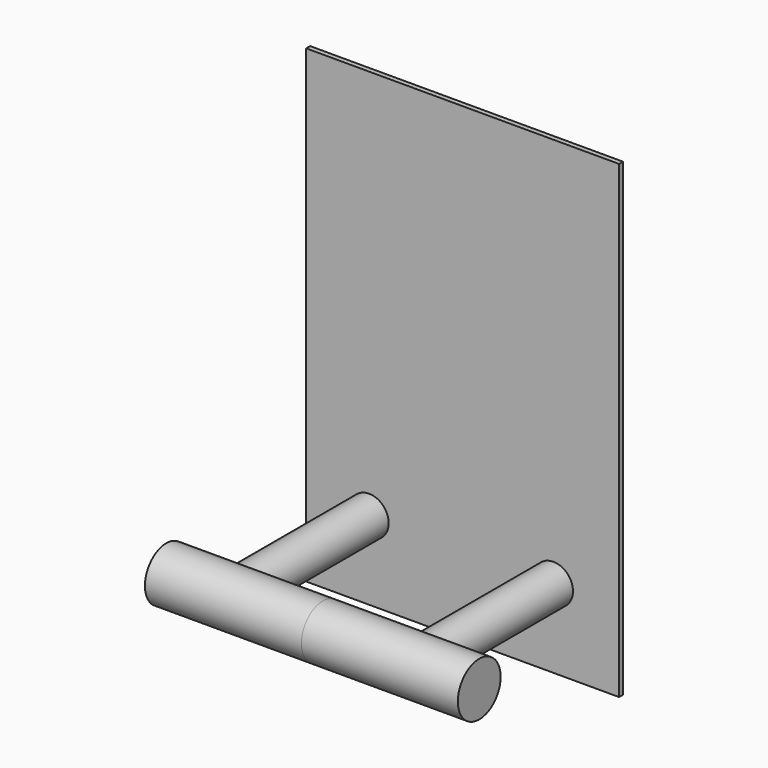
from build123d import *

# Parameters (mm, degrees)
F1_DEPTH      = 1.6002
F2_R          = 6.35
F3_DEPTH      = 50.8
F4_R          = 8.687802
F5_DEPTH      = 50.8
F5_DEPTH_BACK = 50.8


with BuildPart() as f1:
    # F0 (on Front) → F1 (new body)
    with BuildSketch(Plane.XZ):
        Polygon((0, 76.2), (-50.8, 76.2), (-50.8, 0), (-50.8, -76.2), (0, -76.2), (50.8, -76.2), (50.8, 0), (50.8, 76.2), align=None)
    extrude(amount=F1_DEPTH)

    # F2 (on face) → F3 (join)
    with BuildSketch(Plane.XZ.offset(1.6002)):
        with Locations((-30.371312, -50.8)):
            Circle(F2_R)
        with Locations((29.477347, -50.8)):
            Circle(F2_R)
    extrude(amount=F3_DEPTH)

    # F4 (on Right) → F5 (join, two sides)
    with BuildSketch(Plane.YZ) as f5_sk:
        with Locations((-58.367599, -50.84005)):
            Circle(F4_R)
    extrude(amount=F5_DEPTH)
    extrude(f5_sk.sketch, amount=-F5_DEPTH_BACK)


solid = f1.part
